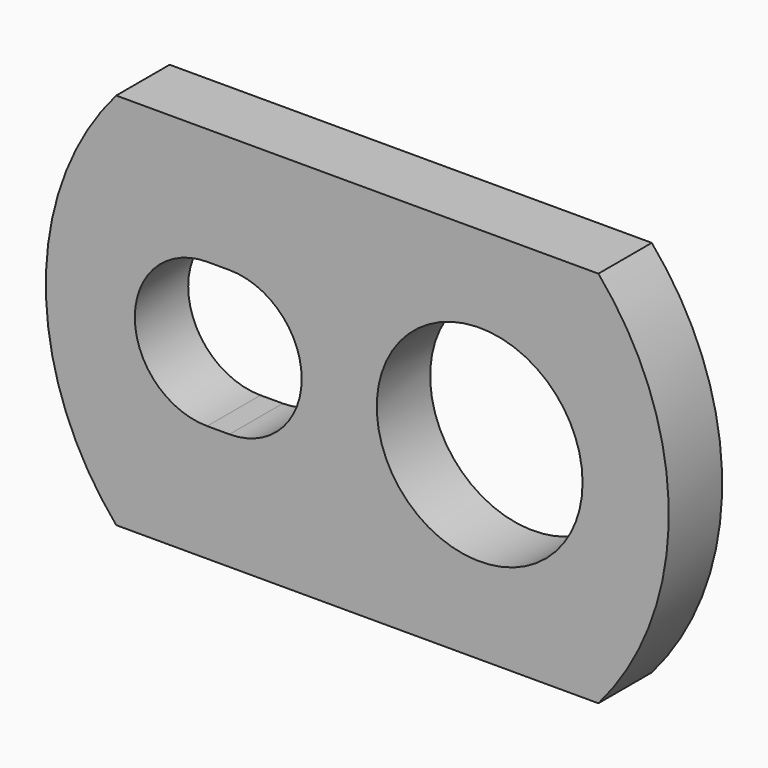
from build123d import *

# Parameters (mm, degrees)
F0_R     = 14.684375
F1_DEPTH = 9.525


with BuildPart() as f1:
    # F0 (on Front) → F1 (new body)
    with BuildSketch(Plane.XZ):
        with BuildLine():
            Line((-51.867301, -26.9875), (16.942301, -26.9875))
            ThreePointArc((16.942301, -26.9875), (26.9875, 0), (16.942301, 26.9875))
            Line((16.942301, 26.9875), (-51.867301, 26.9875))
            ThreePointArc((-51.867301, 26.9875), (-61.9125, 0), (-51.867301, -26.9875))
        make_face()
        with BuildLine():
            ThreePointArc((-38.89375, -10.31875), (-49.2125, 0), (-38.89375, 10.31875))
            Line((-38.89375, 10.31875), (-35.71875, 10.31875))
            ThreePointArc((-35.71875, 10.31875), (-25.4, 0), (-35.71875, -10.31875))
            Line((-35.71875, -10.31875), (-38.89375, -10.31875))
        make_face(mode=Mode.SUBTRACT)
        Circle(F0_R, mode=Mode.SUBTRACT)
    extrude(amount=F1_DEPTH)


solid = f1.part
